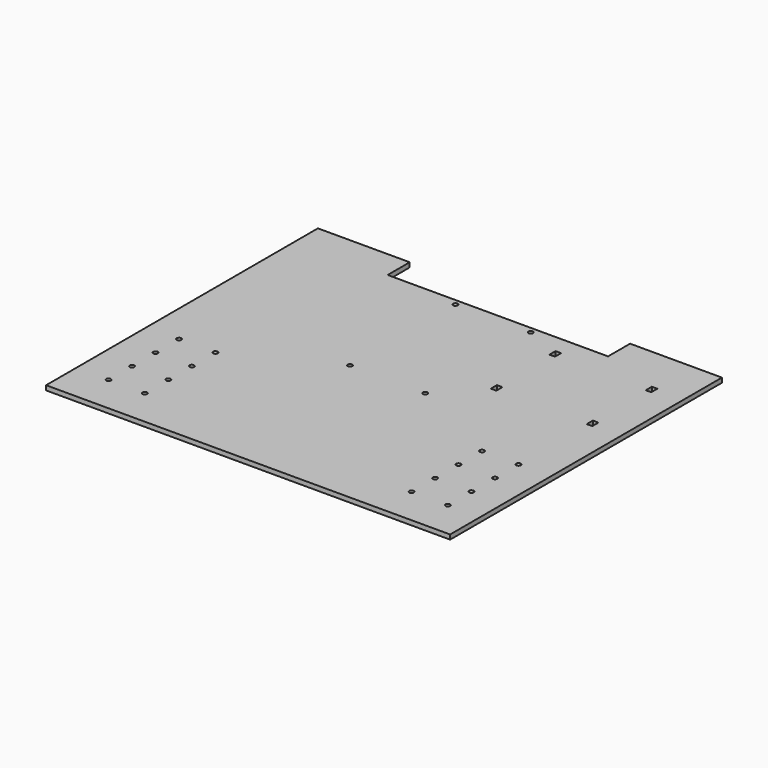
from build123d import *

# Parameters (mm, degrees)
F1_DEPTH  = 6.35
F3_D      = 6.35
F5_D      = 6.35
F8_D      = 6.35
F10_D     = 6.35
F11_W     = 7.62
F11_H     = 10.5918
F12_DEPTH = 25.4


with BuildPart() as f1:
    # F0 (on Top) → F1 (new body)
    with BuildSketch(Plane.XY):
        Polygon((-279.4, 228.631461), (-279.4, -241.268539), (279.4, -241.268539), (279.4, 228.631461), (152.4, 228.631461), (152.4, 190.531461), (-152.4, 190.531461), (-152.4, 228.631461), align=None)
    extrude(amount=F1_DEPTH)

    # F3 (through all)
    with Locations(Plane.XY.offset(6.35)):
        with Locations((-234.68838, -189.198539), (-184.42432, -189.198539)):
            Hole(F3_D / 2)

    # F5 (through all)
    with Locations(Plane.XY.offset(6.35)):
        with Locations((-234.696, -67.278539), (-184.4294, -67.278539), (-184.4294, -107.918539), (-234.696, -107.918539), (-234.696, -148.558539), (-184.43194, -148.558539)):
            Hole(F5_D / 2)

    # F8 (through all)
    with Locations(Plane.XY.offset(6.35)):
        with Locations((184.404, -189.198539), (234.66806, -189.198539), (234.696, -148.558539), (184.43194, -148.558539), (184.4294, -107.918539), (234.696, -107.918539), (234.696, -67.278539), (184.43194, -67.278539)):
            Hole(F8_D / 2)

    # F10 (through all)
    with Locations(Plane.XY.offset(6.35)):
        with Locations((-52.07, 182.27294), (52.07, 182.27294), (52.07, 0), (-52.07, 0)):
            Hole(F10_D / 2)

    # F11 (on face) → F12 (cut)
    with BuildSketch(Plane.XY.offset(6.35)):
        with Locations((104.4448, 57.829161)):
            Rectangle(F11_W, F11_H)
        with Locations((104.23652, 159.429161)):
            Rectangle(F11_W, F11_H)
        with Locations((237.41888, 159.429161)):
            Rectangle(F11_W, F11_H)
        with Locations((237.2106, 57.829161)):
            Rectangle(F11_W, F11_H)
    extrude(amount=-F12_DEPTH, mode=Mode.SUBTRACT)


solid = f1.part
